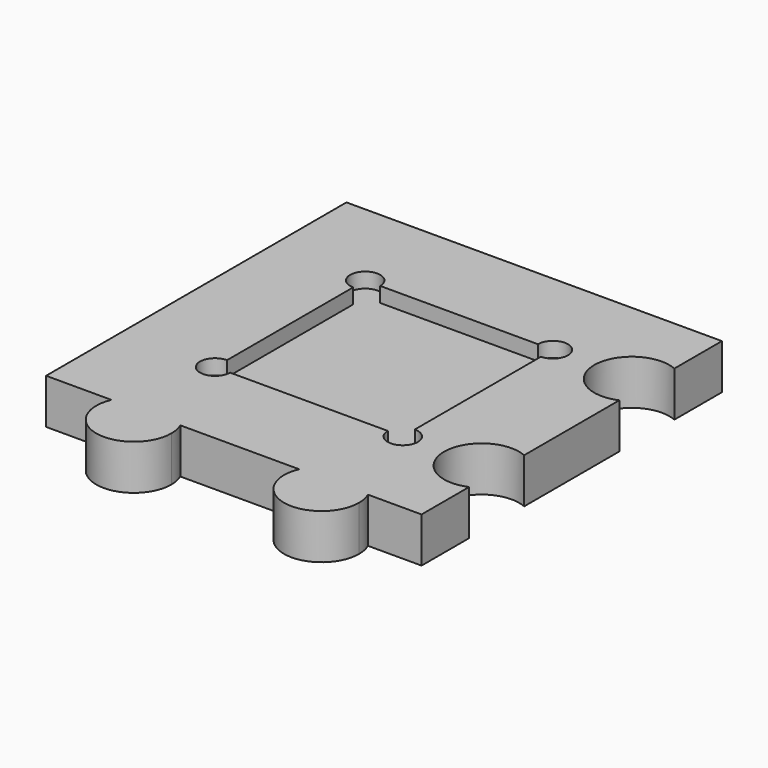
from build123d import *

# Parameters (mm, degrees)
F1_DEPTH = 3
F3_DEPTH = 1
F4_R     = 2.5
F5_DEPTH = 3
F6_DEPTH = 3


with BuildPart() as f1:
    # F0 (on Top) → F1 (new body)
    with BuildSketch(Plane.XY):
        with BuildLine():
            Line((12.5, -12.5), (12.5, 12.5))
            Line((12.5, 12.5), (-12.5, 12.5))
            Line((-12.5, 12.5), (-12.5, -12.5))
            Line((-12.5, -12.5), (-8.1482400118, -12.5))
            ThreePointArc((-8.1482400118, -12.5), (-5.8569521643, -11), (-3.5656643168, -12.5))
            Line((-3.5656643168, -12.5), (4.3517599882, -12.5))
            ThreePointArc((4.3517599882, -12.5), (6.6430478357, -11), (8.9343356832, -12.5))
            Line((8.9343356832, -12.5), (12.5, -12.5))
        make_face()
        with BuildLine():
            ThreePointArc((9.1430478357, -13.5), (9.090313618, -12.9892258908), (8.9343356832, -12.5))
            Line((8.9343356832, -12.5), (4.3517599882, -12.5))
            ThreePointArc((4.3517599882, -12.5), (6.1322737265, -15.9472657823), (9.1430478357, -13.5))
        make_face()
        with BuildLine():
            Line((4.3517599882, -12.5), (8.9343356832, -12.5))
            ThreePointArc((8.9343356832, -12.5), (6.6430478357, -11), (4.3517599882, -12.5))
        make_face()
        with BuildLine():
            ThreePointArc((-3.5656643168, -12.5), (-5.8569521643, -11), (-8.1482400118, -12.5))
            Line((-8.1482400118, -12.5), (-3.5656643168, -12.5))
        make_face()
        with BuildLine():
            Line((-3.5656643168, -12.5), (-8.1482400118, -12.5))
            ThreePointArc((-8.1482400118, -12.5), (-6.3677262735, -15.9472657823), (-3.3569521643, -13.5))
            ThreePointArc((-3.3569521643, -13.5), (-3.409686382, -12.9892258908), (-3.5656643168, -12.5))
        make_face()
    extrude(amount=F1_DEPTH)

    # F2 (on face) → F3 (cut)
    with BuildSketch(Plane.XY.offset(3)):
        with BuildLine():
            Line((5.25, 6.25), (-5.25, 6.25))
            ThreePointArc((-5.25, 6.25), (-5.5428932188, 5.5428932188), (-6.25, 5.25))
            Line((-6.25, 5.25), (-6.25, -5.25))
            ThreePointArc((-6.25, -5.25), (-5.5428932188, -5.5428932188), (-5.25, -6.25))
            Line((-5.25, -6.25), (5.25, -6.25))
            ThreePointArc((5.25, -6.25), (5.5428932188, -5.5428932188), (6.25, -5.25))
            Line((6.25, -5.25), (6.25, 5.25))
            ThreePointArc((6.25, 5.25), (5.5428932188, 5.5428932188), (5.25, 6.25))
        make_face()
        with BuildLine():
            ThreePointArc((-6.25, 5.25), (-5.5428932188, 5.5428932188), (-5.25, 6.25))
            Line((-5.25, 6.25), (-6.25, 6.25))
            Line((-6.25, 6.25), (-6.25, 5.25))
        make_face()
        with BuildLine():
            Line((-6.25, 6.25), (-5.25, 6.25))
            ThreePointArc((-5.25, 6.25), (-6.9571067812, 6.9571067812), (-6.25, 5.25))
            Line((-6.25, 5.25), (-6.25, 6.25))
        make_face()
        with BuildLine():
            ThreePointArc((7.25, 6.25), (6.25, 7.25), (5.25, 6.25))
            Line((5.25, 6.25), (6.25, 6.25))
            Line((6.25, 6.25), (6.25, 5.25))
            ThreePointArc((6.25, 5.25), (6.9571067812, 5.5428932188), (7.25, 6.25))
        make_face()
        with BuildLine():
            Line((6.25, 6.25), (5.25, 6.25))
            ThreePointArc((5.25, 6.25), (5.5428932188, 5.5428932188), (6.25, 5.25))
            Line((6.25, 5.25), (6.25, 6.25))
        make_face()
        with BuildLine():
            Line((6.25, -6.25), (6.25, -5.25))
            ThreePointArc((6.25, -5.25), (5.5428932188, -5.5428932188), (5.25, -6.25))
            Line((5.25, -6.25), (6.25, -6.25))
        make_face()
        with BuildLine():
            ThreePointArc((7.25, -6.25), (6.9571067812, -5.5428932188), (6.25, -5.25))
            Line((6.25, -5.25), (6.25, -6.25))
            Line((6.25, -6.25), (5.25, -6.25))
            ThreePointArc((5.25, -6.25), (6.25, -7.25), (7.25, -6.25))
        make_face()
        with BuildLine():
            ThreePointArc((-5.25, -6.25), (-5.5428932188, -5.5428932188), (-6.25, -5.25))
            Line((-6.25, -5.25), (-6.25, -6.25))
            Line((-6.25, -6.25), (-5.25, -6.25))
        make_face()
        with BuildLine():
            Line((-6.25, -6.25), (-6.25, -5.25))
            ThreePointArc((-6.25, -5.25), (-6.9571067812, -6.9571067812), (-5.25, -6.25))
            Line((-5.25, -6.25), (-6.25, -6.25))
        make_face()
    extrude(amount=-F3_DEPTH, mode=Mode.SUBTRACT)

    # F4 (on Top) → F5 (cut)
    with BuildSketch(Plane.XY):
        with Locations((11.5, 6.25)):
            Circle(F4_R)
        with Locations((11.5, -6.25)):
            Circle(F4_R)
    extrude(amount=-F5_DEPTH, mode=Mode.SUBTRACT)


with BuildPart() as f6:
    # F4 (on Top) → F6 (new body)
    with BuildSketch(Plane.XY):
        with Locations((11.5, 6.25)):
            Circle(F4_R)
    extrude(amount=F6_DEPTH)


with BuildPart() as f6b:
    # F4 (on Top) → F6, piece 2 (new body)
    with BuildSketch(Plane.XY):
        with Locations((11.5, -6.25)):
            Circle(F4_R)
    extrude(amount=F6_DEPTH)


with BuildPart() as f1_1:
    add(f1.part)

    # F7: cut F6b, F6
    add(f6b.part, mode=Mode.SUBTRACT)
    add(f6.part, mode=Mode.SUBTRACT)


solid = f1_1.part
